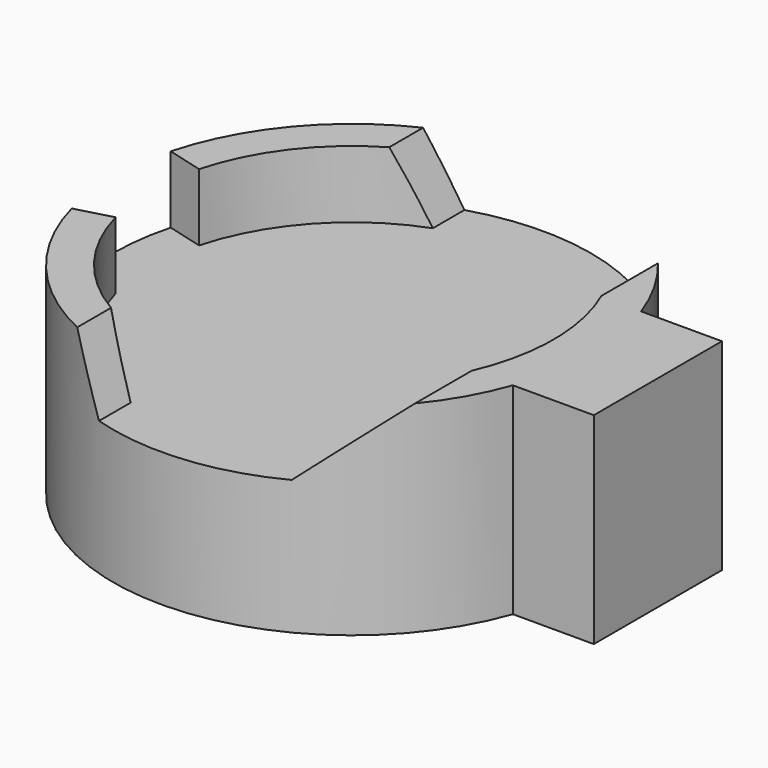
from build123d import *

# Parameters (mm, degrees)
PAD063_DEPTH    = 9
SKETCH096_R     = 9
POCKET019_DEPTH = 3
POCKET020_DEPTH = 24.2527662109
POCKET021_DEPTH = 3


with BuildPart() as part:
    # Sketch095 → Pad063 (new body)
    with BuildSketch(Plane.XY.offset(1.6)):
        with BuildLine():
            Line((64.6986240714, 66.789096024), (68.3068088834, 66.789096024))
            Line((68.3068088834, 66.789096024), (68.3068088834, 59.6371823367))
            Line((68.3068088834, 59.6371823367), (64.6946039998, 59.6371823367))
            ThreePointArc((64.6986240714, 66.789096024), (43.973359138, 63.2247876667), (64.6946039998, 59.6371823367))
        make_face()
    extrude(amount=PAD063_DEPTH)

    # Sketch096 (on Face6 of Pad063) → Pocket019 (cut)
    with BuildSketch(Plane.XY.offset(10.6)):
        with Locations((54.643516, 63.21879)):
            Circle(SKETCH096_R)
    extrude(amount=-POCKET019_DEPTH, mode=Mode.SUBTRACT)

    # Sketch097 (on DatumPlane) → Pocket020 (cut, through all)
    with BuildSketch(Plane(origin=(0, 49.6371823367, 1.6), x_dir=(1, 0, 0), z_dir=(0, -1, 0))):
        Polygon((47.624802, 14.26), (51.504802, 6), (59.534802, 6), (66.034802, 11.82), align=None)
    extrude(amount=-POCKET020_DEPTH, mode=Mode.SUBTRACT)

    # Sketch098 (on Face10 of Pocket020) → Pocket021 (cut)
    with BuildSketch(Plane.XY.offset(10.6)):
        Polygon((54.643516, 63.21879), (36.6761624803, 68.0350836562), (36.6761624803, 58.4024963438), align=None)
    extrude(amount=-POCKET021_DEPTH, mode=Mode.SUBTRACT)


with BuildPart() as part_1:
    # Body011 placement: moved
    add(part.part.moved(Location((0, 0, 20))))


solid = part_1.part
